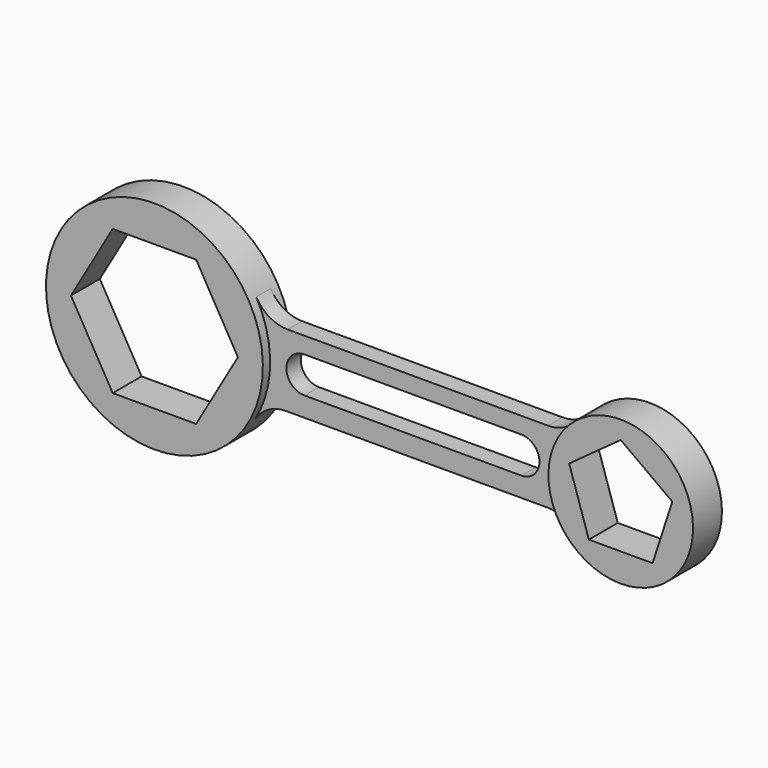
from build123d import *

# Parameters (mm, degrees)
F1_DEPTH = 127
F2_DEPTH = 63.5


with BuildPart() as f1:
    # F0 (on Front) → F1 (new body, symmetric)
    with BuildSketch(Plane.XZ):
        with BuildLine():
            ThreePointArc((655.0352990122, -389.3234606957), (734.772378988, -201.8750878052), (762, 0))
            ThreePointArc((762, 0), (737.2602445585, 192.5910999853), (664.647423114, 372.6765393043))
            ThreePointArc((664.647423114, 372.6765393043), (-761.9393819521, 9.6113594455), (655.0352990122, -389.3234606957))
        make_face()
        Polygon((-293.2939367483, -508), (-586.5878734967, 0), (-293.2939367483, 508), (293.2939367483, 508), (586.5878734967, 0), (293.2939367483, -508), align=None, mode=Mode.SUBTRACT)
    extrude(amount=F1_DEPTH, both=True)


with BuildPart() as f1b:
    # F0 (on Front) → F1, piece 2 (new body, symmetric)
    with BuildSketch(Plane.XZ):
        with BuildLine():
            ThreePointArc((3784.6, -18.1179286083), (3460.8113411178, 455.3059636949), (2902.1977094347, 325.2287254011))
            ThreePointArc((2902.1977094347, 325.2287254011), (2768.7042145878, -7.8285573693), (2888.5990161929, -346.0191889973))
            ThreePointArc((2888.5990161929, -346.0191889973), (3451.1845070818, -495.1758390207), (3784.6, -18.1179286083))
        make_face()
        Polygon((2914.2474672915, 99.6175462485), (3276.6, 362.8820713917), (3638.9525327085, 99.6175462485), (3500.5461811234, -326.3534034652), (3052.6538188766, -326.3534034652), align=None, mode=Mode.SUBTRACT)
    extrude(amount=F1_DEPTH, both=True)


with BuildPart() as f2:
    # F0 (on Front) → F2 (new body, symmetric)
    with BuildSketch(Plane.XZ):
        with BuildLine():
            ThreePointArc((664.647423114, 372.6765393043), (737.2602445585, 192.5910999853), (762, 0))
            ThreePointArc((762, 0), (734.772378988, -201.8750878052), (655.0352990122, -389.3234606957))
            ThreePointArc((655.0352990122, -389.3234606957), (747.7753025925, -298.3280224773), (873.3803986829, -265.0979475942))
            Line((873.3803986829, -265.0979475942), (2714.26397452, -265.0979475942))
            ThreePointArc((2714.26397452, -265.0979475942), (2810.3641228879, -286.3143010807), (2888.5990161929, -346.0191889973))
            ThreePointArc((2888.5990161929, -346.0191889973), (2768.7042145878, -7.8285573693), (2902.1977094347, 325.2287254011))
            ThreePointArc((2902.1977094347, 325.2287254011), (2817.2486422258, 264.3928858562), (2714.9965641521, 242.9020524058))
            Line((2714.9965641521, 242.9020524058), (886.1965641521, 242.9020524058))
            ThreePointArc((886.1965641521, 242.9020524058), (757.8168156085, 277.733988665), (664.647423114, 372.6765393043))
        make_face()
        with BuildLine():
            Line((1003.3, 127), (1765.3, 127))
            Line((1765.3, 127), (2527.3, 127))
            ThreePointArc((2527.3, 127), (2654.3, 0), (2527.3, -127))
            Line((2527.3, -127), (1003.3, -127))
            ThreePointArc((1003.3, -127), (876.3, 0), (1003.3, 127))
        make_face(mode=Mode.SUBTRACT)
    extrude(amount=F2_DEPTH, both=True)


solid = Compound([f1.part, f1b.part, f2.part])
